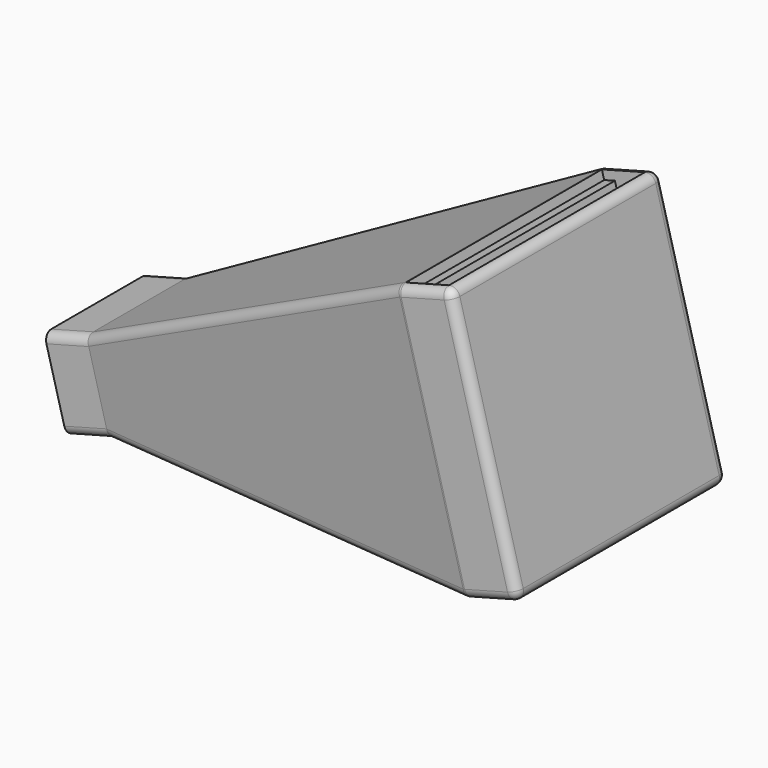
from build123d import *

# Parameters (mm, degrees)
SKETCH037_W             = 110
SKETCH037_H             = 110
PAD002_DEPTH            = 220
POCKET012_DEPTH         = 158
POCKET001_DEPTH         = 158
THICKNESS001_T          = 4
SKETCH014_W             = 110
SKETCH014_H             = 4
POCKET013_DEPTH         = 4
SKETCH016_W             = 3
SKETCH016_H             = 3
PAD022_DEPTH            = 110
SKETCH018_W             = 110
SKETCH018_H             = 16
POCKET014_DEPTH         = 4
SKETCH019_W             = 3
SKETCH019_H             = 5
PAD007_DEPTH            = 110
BODY007_ROLL_ANGLE      = 105
BODY007_PLACEMENT_ANGLE = -90


with BuildPart() as part:
    # Sketch037 → Pad002 (new body)
    with BuildSketch(Plane.XY):
        Rectangle(SKETCH037_W, SKETCH037_H)
    extrude(amount=PAD002_DEPTH)

    # Sketch038 (on Face3 of Pad002) → Pocket012 (cut)
    with BuildSketch(Plane.XZ.offset(55)):
        Polygon((-55, 20), (-25.5, 200), (-25.5, 220), (-55, 220), align=None)
        Polygon((25.5, 220), (55, 220), (55, 20), (25.5, 200), align=None)
    extrude(amount=-POCKET012_DEPTH, mode=Mode.SUBTRACT)

    # Sketch008 (on DatumPlane) → Pocket001 (cut)
    with BuildSketch(Plane.YZ.offset(55)):
        Polygon((-55, 20), (-15.5, 200), (-15.5, 220), (-55, 220), align=None)
        Polygon((15.5, 220), (15.5, 200), (55, 20), (55, 220), align=None)
    extrude(amount=-POCKET001_DEPTH, mode=Mode.SUBTRACT)

    # Thickness001
    thickness001_openings = [part.faces().sort_by_distance(p)[0] for p in [
        (0, 0, 220),
    ]]
    offset(amount=THICKNESS001_T, openings=thickness001_openings)

    # Sketch014 (on Face42 of Thickness001) → Pocket013 (cut)
    with BuildSketch(Plane(origin=(0, 59, 0), x_dir=(-1, 0, 0), z_dir=(0, 1, 0))):
        with Locations((0, 2)):
            Rectangle(SKETCH014_W, SKETCH014_H)
    extrude(amount=-POCKET013_DEPTH, mode=Mode.SUBTRACT)

    # Sketch016 (on Face35 of Pocket013) → Pad022 (join)
    with BuildSketch(Plane(origin=(0, -55, 0), x_dir=(-1, 0, 0), z_dir=(0, 1, 0))):
        with Locations((-53.5, 5.5)):
            Rectangle(SKETCH016_W, SKETCH016_H)
        with Locations((53.5, 5.5)):
            Rectangle(SKETCH016_W, SKETCH016_H)
    extrude(amount=PAD022_DEPTH)

    # Sketch018 (on Face36 of Pad022) → Pocket014 (cut)
    with BuildSketch(Plane(origin=(0, 59, 0), x_dir=(-1, 0, 0), z_dir=(0, 1, 0))):
        with Locations((0, 12)):
            Rectangle(SKETCH018_W, SKETCH018_H)
    extrude(amount=-POCKET014_DEPTH, mode=Mode.SUBTRACT)

    # Sketch019 (on Face49 of Pocket014) → Pad007 (join)
    with BuildSketch(Plane(origin=(55, 0, 0), x_dir=(0, -1, 0), z_dir=(-1, 0, 0))):
        with Locations((-53.5, 17.5)):
            Rectangle(SKETCH019_W, SKETCH019_H)
    extrude(amount=PAD007_DEPTH)


with BuildPart() as part_1:
    # Body007 roll: moved
    add(part.part.rotate(Axis((0, 0, 0), (1, 0, 0)), BODY007_ROLL_ANGLE))


with BuildPart() as part_2:
    # Body007 placement: moved
    add(part_1.part.moved(Location((243.899571, 0, 96.933558))).rotate(Axis((243.899571, 0, 96.933558), (0, 0, 1)), BODY007_PLACEMENT_ANGLE))


solid = part_2.part
